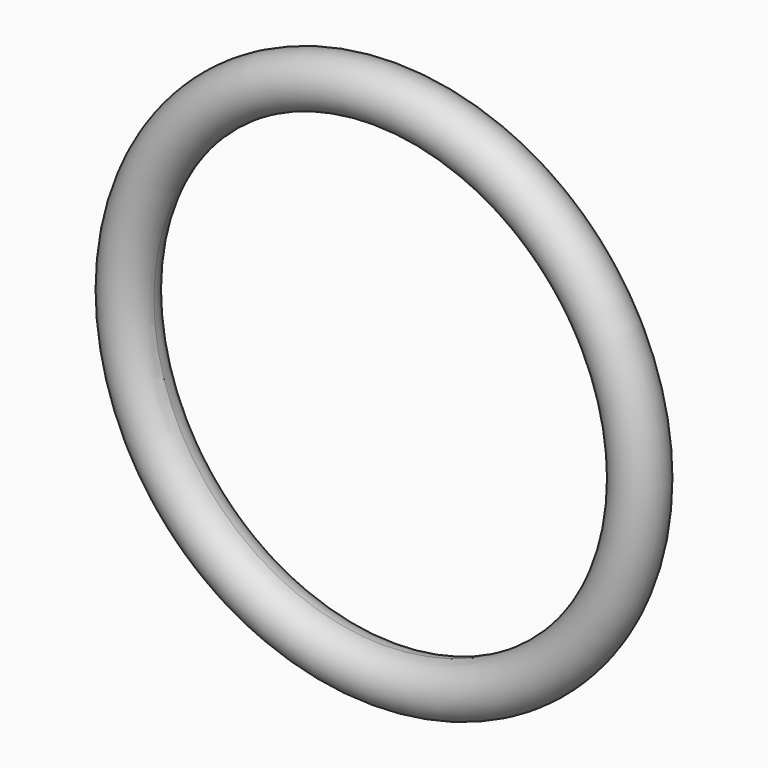
from build123d import *


with BuildPart() as f2:
    # F2: sweep along a path in F0
    with BuildLine(Plane.XZ) as f2_path:
        CenterArc((0, 0), 6.35, 0, 360)
    # F1 (on Right) → F2 (sweep)
    with BuildSketch(Plane.YZ):
        with BuildLine():
            ThreePointArc((0, 5.715), (0.449013, 5.900987), (0.635, 6.35))
            ThreePointArc((0.635, 6.35), (-0.449013, 6.799013), (0, 5.715))
        make_face()
    sweep(path=f2_path.line)


solid = f2.part
